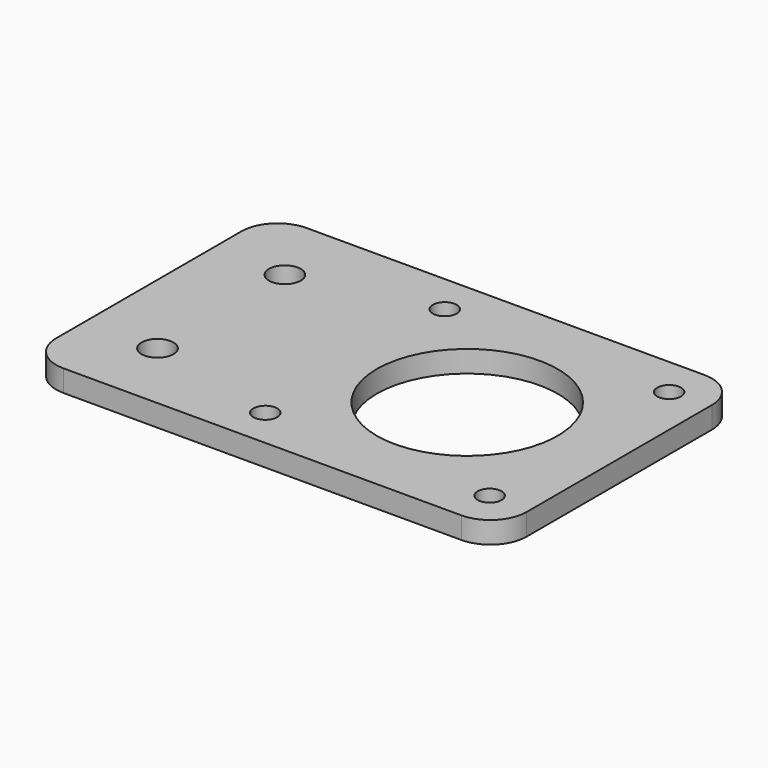
from build123d import *

# Parameters (mm, degrees)
F0_W     = 65
F0_H     = 42
F1_DEPTH = 3
F3_D     = 3.3
F4_D     = 4.4
F5_D     = 25
F6_R     = 5


with BuildPart() as f1:
    # F0 (on Top) → F1 (new body)
    with BuildSketch(Plane.XY):
        with Locations((32.5, -21)):
            Rectangle(F0_W, F0_H)
    extrude(amount=F1_DEPTH)

    # F3 (through all)
    with Locations(Plane.XY.offset(3)):
        with Locations((28.5, -5.5), (28.5, -36.5), (59.5, -36.5), (59.5, -5.5)):
            Hole(F3_D / 2)

    # F4 (through all)
    with Locations(Plane.XY.offset(3)):
        with Locations((10, -10), (10, -32)):
            Hole(F4_D / 2)

    # F5 (through all)
    with Locations(Plane.XY.offset(3)):
        with Locations((44, -21)):
            Hole(F5_D / 2)

    # F6
    f6_edges = [f1.edges().sort_by_distance(p)[0] for p in [
        (0, -42, 1.5),
        (65, -42, 1.5),
        (65, 0, 1.5),
        (0, 0, 1.5),
    ]]
    fillet(f6_edges, radius=F6_R)


solid = f1.part
